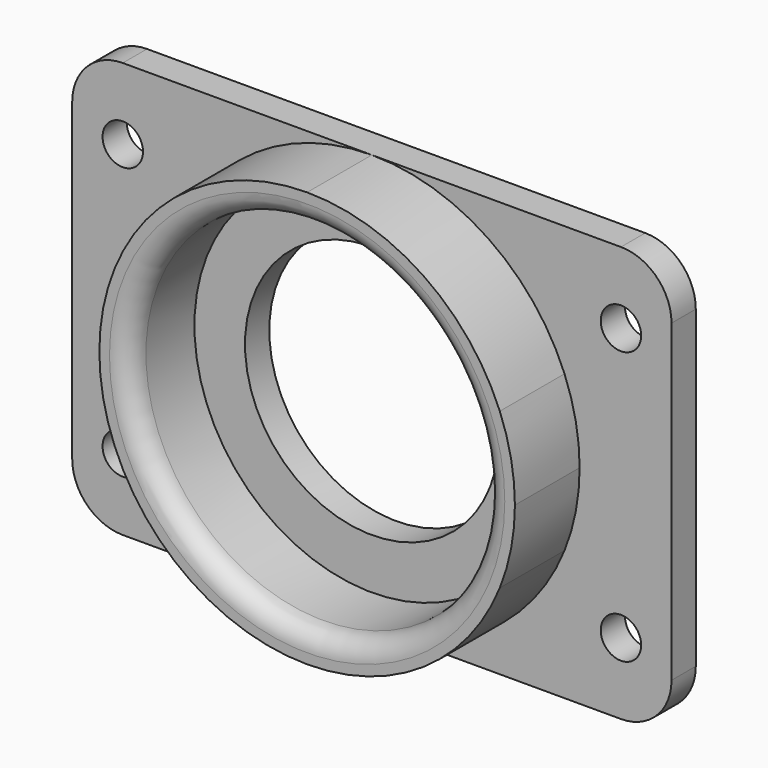
from build123d import *

# Parameters (mm, degrees)
F0_R     = 17.54425
F0_R_2   = 2
F1_DEPTH = 3
F0_R_3   = 12.54425
F2_DEPTH = 3
F3_DEPTH = 11
F4_R     = 5
F5_R     = 2


with BuildPart() as f1:
    # F0 (on Front) → F1 (new body)
    with BuildSketch(Plane.XZ):
        with BuildLine():
            ThreePointArc((19.05, 7.6917948531), (11.4900838041, 17.0306835517), (0, 20.54425))
            ThreePointArc((0, 20.54425), (-11.4900838041, 17.0306835517), (-19.05, 7.6917948531))
            Line((-19.05, 7.6917948531), (-19.05, -7.6917948531))
            ThreePointArc((-19.05, -7.6917948531), (-11.4900838386, -17.0306835284), (-8.31e-08, -20.54425))
            ThreePointArc((-8.31e-08, -20.54425), (11.4900837697, -17.0306835749), (19.05, -7.6917948531))
            Line((19.05, -7.6917948531), (19.05, 7.6917948531))
        make_face()
        Circle(F0_R, mode=Mode.SUBTRACT)
        with BuildLine():
            Line((29.6296158184, 20.54425), (19.05, 20.54425))
            Line((19.05, 20.54425), (19.05, 7.6917948531))
            ThreePointArc((19.05, 7.6917948531), (20.1672280019, 3.9177956533), (20.54425, 0))
            ThreePointArc((20.54425, 0), (20.1672280019, -3.9177956533), (19.05, -7.6917948531))
            Line((19.05, -7.6917948531), (19.05, -20.54425))
            Line((19.05, -20.54425), (29.6296158184, -20.54425))
            Line((29.6296158184, -20.54425), (29.6296158184, 20.54425))
        make_face()
        with Locations((24.6296158184, -13.4703841816)):
            Circle(F0_R_2, mode=Mode.SUBTRACT)
        with Locations((24.6296158184, 13.4703841816)):
            Circle(F0_R_2, mode=Mode.SUBTRACT)
        with BuildLine():
            Line((-19.05, 7.6917948531), (-19.05, 20.54425))
            Line((-19.05, 20.54425), (-29.6296158184, 20.54425))
            Line((-29.6296158184, 20.54425), (-29.6296158184, -20.54425))
            Line((-29.6296158184, -20.54425), (-19.05, -20.54425))
            Line((-19.05, -20.54425), (-19.05, -7.6917948531))
            ThreePointArc((-19.05, -7.6917948531), (-20.54425, 0), (-19.05, 7.6917948531))
        make_face()
        with Locations((-24.6296158184, -13.4703841816)):
            Circle(F0_R_2, mode=Mode.SUBTRACT)
        with Locations((-24.6296158184, 13.4703841816)):
            Circle(F0_R_2, mode=Mode.SUBTRACT)
        with BuildLine():
            Line((0, 20.54425), (-19.05, 20.54425))
            Line((-19.05, 20.54425), (-19.05, 7.6917948531))
            ThreePointArc((-19.05, 7.6917948531), (-11.4900838041, 17.0306835517), (0, 20.54425))
        make_face()
        with BuildLine():
            Line((-19.05, -7.6917948531), (-19.05, 7.6917948531))
            ThreePointArc((-19.05, 7.6917948531), (-20.54425, 0), (-19.05, -7.6917948531))
        make_face()
        with BuildLine():
            ThreePointArc((20.54425, 0), (20.1672280019, 3.9177956533), (19.05, 7.6917948531))
            Line((19.05, 7.6917948531), (19.05, -7.6917948531))
            ThreePointArc((19.05, -7.6917948531), (20.1672280019, -3.9177956533), (20.54425, 0))
        make_face()
        with BuildLine():
            Line((19.05, 20.54425), (0, 20.54425))
            ThreePointArc((0, 20.54425), (11.4900838041, 17.0306835517), (19.05, 7.6917948531))
            Line((19.05, 7.6917948531), (19.05, 20.54425))
        make_face()
        with BuildLine():
            Line((19.05, -20.54425), (19.05, -7.6917948531))
            ThreePointArc((19.05, -7.6917948531), (11.4900837697, -17.0306835749), (-8.31e-08, -20.54425))
            Line((-8.31e-08, -20.54425), (19.05, -20.54425))
        make_face()
        with BuildLine():
            ThreePointArc((-8.31e-08, -20.54425), (-11.4900838386, -17.0306835284), (-19.05, -7.6917948531))
            Line((-19.05, -7.6917948531), (-19.05, -20.54425))
            Line((-19.05, -20.54425), (-8.31e-08, -20.54425))
        make_face()
    extrude(amount=F1_DEPTH)

    # F0 (on Front) → F2 (join)
    with BuildSketch(Plane.XZ):
        Circle(F0_R)
        Circle(F0_R_3, mode=Mode.SUBTRACT)
    extrude(amount=F2_DEPTH)

    # F0 (on Front) → F3 (join)
    with BuildSketch(Plane.XZ):
        with BuildLine():
            ThreePointArc((19.05, 7.6917948531), (11.4900838041, 17.0306835517), (0, 20.54425))
            ThreePointArc((0, 20.54425), (-11.4900838041, 17.0306835517), (-19.05, 7.6917948531))
            Line((-19.05, 7.6917948531), (-19.05, -7.6917948531))
            ThreePointArc((-19.05, -7.6917948531), (-11.4900838386, -17.0306835284), (-8.31e-08, -20.54425))
            ThreePointArc((-8.31e-08, -20.54425), (11.4900837697, -17.0306835749), (19.05, -7.6917948531))
            Line((19.05, -7.6917948531), (19.05, 7.6917948531))
        make_face()
        Circle(F0_R, mode=Mode.SUBTRACT)
        with BuildLine():
            Line((-19.05, -7.6917948531), (-19.05, 7.6917948531))
            ThreePointArc((-19.05, 7.6917948531), (-20.54425, 0), (-19.05, -7.6917948531))
        make_face()
        with BuildLine():
            ThreePointArc((20.54425, 0), (20.1672280019, 3.9177956533), (19.05, 7.6917948531))
            Line((19.05, 7.6917948531), (19.05, -7.6917948531))
            ThreePointArc((19.05, -7.6917948531), (20.1672280019, -3.9177956533), (20.54425, 0))
        make_face()
    extrude(amount=F3_DEPTH)

    # F4
    f4_edges = [f1.edges().sort_by_distance(p)[0] for p in [
        (-29.629616, -1.5, 20.54425),
        (-29.629616, -1.5, -20.54425),
        (29.629616, -1.5, -20.54425),
        (29.629616, -1.5, 20.54425),
    ]]
    fillet(f4_edges, radius=F4_R)

    # F5
    f5_edges = [f1.edges().sort_by_distance(p)[0] for p in [
        (-17.54425, -11, 0),
    ]]
    fillet(f5_edges, radius=F5_R)


solid = f1.part
